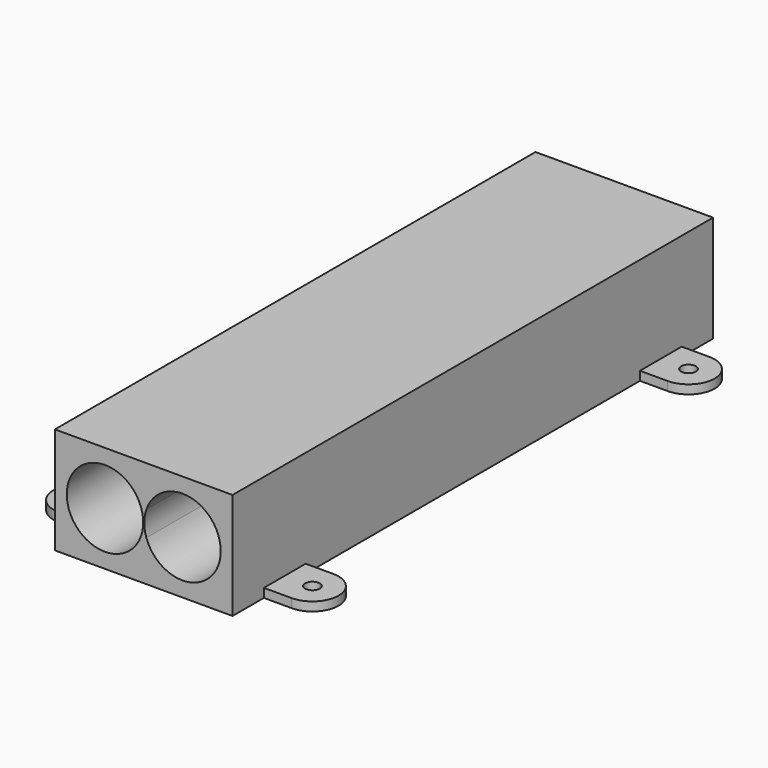
from build123d import *

# Parameters (mm, degrees)
F0_R     = 1.778
F1_DEPTH = 2.159
F2_W     = 43.18
F2_H     = 146.05
F3_DEPTH = 21.59
F4_W     = 43.18
F4_H     = 146.05
F5_DEPTH = 2.159
F7_DEPTH = 146.051


with BuildPart() as f1:
    # F0 (on Top) → F1 (new body)
    with BuildSketch(Plane.XY):
        Polygon((21.59, 63.5), (21.59, 73.025), (-21.59, 73.025), (-21.59, 63.5), (-21.59, 50.8), (-21.59, -50.8), (-21.59, -63.5), (-21.59, -73.025), (21.59, -73.025), (21.59, -63.5), (21.59, -50.8), (21.59, 50.8), align=None)
        with BuildLine():
            Line((28.321, 63.5), (21.59, 63.5))
            Line((21.59, 63.5), (21.59, 50.8))
            Line((21.59, 50.8), (28.321, 50.8))
            ThreePointArc((28.321, 50.8), (34.671, 57.15), (28.321, 63.5))
        make_face()
        with Locations((28.321, 57.15)):
            Circle(F0_R, mode=Mode.SUBTRACT)
        with BuildLine():
            Line((-21.59, 50.8), (-21.59, 63.5))
            Line((-21.59, 63.5), (-28.321, 63.5))
            ThreePointArc((-28.321, 63.5), (-34.671, 57.15), (-28.321, 50.8))
            Line((-28.321, 50.8), (-21.59, 50.8))
        make_face()
        with Locations((-28.321, 57.15)):
            Circle(F0_R, mode=Mode.SUBTRACT)
        with BuildLine():
            Line((28.321, -50.8), (21.59, -50.8))
            Line((21.59, -50.8), (21.59, -63.5))
            Line((21.59, -63.5), (28.321, -63.5))
            ThreePointArc((28.321, -63.5), (34.671, -57.15), (28.321, -50.8))
        make_face()
        with Locations((28.321, -57.15)):
            Circle(F0_R, mode=Mode.SUBTRACT)
        with BuildLine():
            Line((-21.59, -63.5), (-21.59, -50.8))
            Line((-21.59, -50.8), (-28.321, -50.8))
            ThreePointArc((-28.321, -50.8), (-34.671, -57.15), (-28.321, -63.5))
            Line((-28.321, -63.5), (-21.59, -63.5))
        make_face()
        with Locations((-28.321, -57.15)):
            Circle(F0_R, mode=Mode.SUBTRACT)
    extrude(amount=F1_DEPTH)

    # F2 (on face) → F3 (join)
    with BuildSketch(Plane.XY.offset(2.159)):
        Rectangle(F2_W, F2_H)
    extrude(amount=F3_DEPTH)

    # F4 (on face) → F5 (join)
    with BuildSketch(Plane.XY.offset(23.749)):
        Rectangle(F4_W, F4_H)
    extrude(amount=F5_DEPTH)

    # F6 (on face) → F7 (cut, through all)
    with BuildSketch(Plane.XZ.offset(73.025)):
        with BuildLine():
            Line((-0.635, 9.922981), (-0.635, 15.985019))
            ThreePointArc((-0.635, 15.985019), (-18.7198, 12.954), (-0.635, 9.922981))
        make_face()
        with BuildLine():
            ThreePointArc((-0.635, 9.922981), (-0.25488, 11.417352), (-0.127, 12.954))
            ThreePointArc((-0.127, 12.954), (-0.25488, 14.490648), (-0.635, 15.985019))
            Line((-0.635, 15.985019), (-0.635, 9.922981))
        make_face()
        with BuildLine():
            Line((0.635, 9.922981), (0.635, 15.985019))
            ThreePointArc((0.635, 15.985019), (0.127, 12.954), (0.635, 9.922981))
        make_face()
        with BuildLine():
            ThreePointArc((18.7198, 12.954), (10.960048, 22.12252), (0.635, 15.985019))
            Line((0.635, 15.985019), (0.635, 9.922981))
            ThreePointArc((0.635, 9.922981), (10.960048, 3.78548), (18.7198, 12.954))
        make_face()
    extrude(amount=-F7_DEPTH, mode=Mode.SUBTRACT)


solid = f1.part
